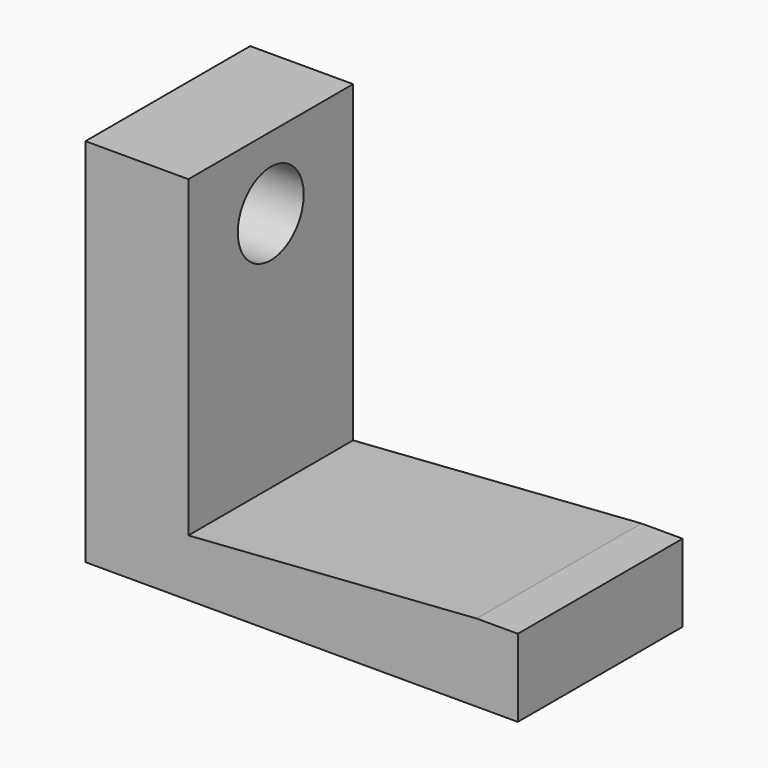
from build123d import *

# Parameters (mm, degrees)
CYLINDER003_R     = 2
CYLINDER003_DEPTH = 10
BOX003_W          = 5
BOX003_H          = 10
BOX003_DEPTH      = 18
EXTRUDE001_DEPTH  = 10


with BuildPart() as cylinder003:
    # Cylinder003 → Cylinder003 (new body)
    with BuildSketch(Plane(origin=(-65, -38, 3.5), x_dir=(0, 0, -1), z_dir=(1, 0, 0))):
        Circle(CYLINDER003_R)
    extrude(amount=CYLINDER003_DEPTH)


with BuildPart() as cut003:
    # Box003 → Box003 (new body)
    with BuildSketch(Plane(origin=(-63, -43, -11), x_dir=(1, 0, 0), z_dir=(0, 0, 1))):
        with Locations((2.5, 5)):
            Rectangle(BOX003_W, BOX003_H)
    extrude(amount=BOX003_DEPTH)

    # Cut003: cut Cylinder003
    add(cylinder003.part, mode=Mode.SUBTRACT)


with BuildPart() as fusion002:
    # Sketch001 → Extrude001 (new body)
    with BuildSketch(Plane.XZ):
        Polygon((-49.224583, -10.083495), (-33.224583, -10.083495), (-33.224583, -6.313495), (-35.224583, -6.313495), (-49.224583, -7.313495), align=None)
    extrude(amount=EXTRUDE001_DEPTH)


with BuildPart() as fusion002_1:
    # Extrude001 placement: moved
    add(fusion002.part.moved(Location((-8.775417, -33, -0.916505))))

    # Fusion002: union Cut003
    add(cut003.part)


with BuildPart() as fusion002_2:
    # Fusion002 placement: moved
    add(fusion002_1.part.moved(Location((0, 76, 0))))


solid = fusion002_2.part
